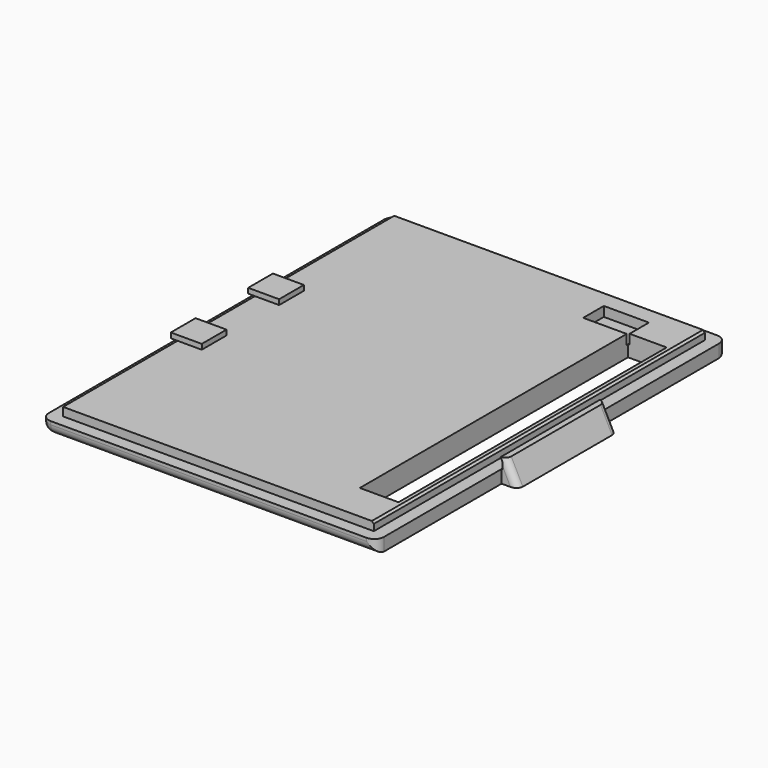
from build123d import *

# Parameters (mm, degrees)
SKETCH_W        = 52
SKETCH_H        = 68
PAD_DEPTH       = 2
SKETCH001_W     = 48.2
SKETCH001_H     = 64.2
PAD001_DEPTH    = 1.3
SKETCH002_W     = 4.8
SKETCH002_H     = 4.8
PAD002_DEPTH    = 0.8
PAD003_DEPTH    = 64.3
SKETCH004_W     = 6
SKETCH004_H     = 52
POCKET_DEPTH    = 5
SKETCH005_W     = 7
SKETCH005_H     = 4
POCKET001_DEPTH = 1.5
POCKET002_DEPTH = 22.5
POCKET003_DEPTH = 22.5
FILLET_R        = 1.5
CHAMFER_SIZE    = 0.3
FILLET001_R     = 1


with BuildPart() as part:
    # Sketch → Pad (new body)
    with BuildSketch(Plane.XY):
        with Locations((24.25, 32.25)):
            Rectangle(SKETCH_W, SKETCH_H)
    extrude(amount=PAD_DEPTH)

    # Sketch001 (on Face6 of Pad) → Pad001 (join)
    with BuildSketch(Plane.XY.offset(2)):
        with Locations((24.25, 32.25)):
            Rectangle(SKETCH001_W, SKETCH001_H)
    extrude(amount=PAD001_DEPTH)

    # Sketch002 (on Face11 of Pad001) → Pad002 (join)
    with BuildSketch(Plane.XY.offset(3.3)):
        with Locations((1.5, 24.75)):
            Rectangle(SKETCH002_W, SKETCH002_H)
        with Locations((1.5, 39.75)):
            Rectangle(SKETCH002_W, SKETCH002_H)
    extrude(amount=PAD002_DEPTH)

    # Sketch003 (on Face9 of Pad002) → Pad003 (join)
    with BuildSketch(Plane(origin=(0, 64.35, 0), x_dir=(-1, 0, 0), z_dir=(0, 1, 0))):
        Polygon((-50.25, 0), (-52.75, 0), (-50.95359, 3.55), (-50.05359, 3.55), (-50.4, 2.95), (-50.4, 2), (-50.25, 2), align=None)
    extrude(amount=-PAD003_DEPTH)

    # Sketch004 (on Face4 of Pad003) → Pocket (cut)
    with BuildSketch(Plane(origin=(0, 0, 0), x_dir=(1, 0, 0), z_dir=(0, 0, -1))):
        with Locations((44.5, -32)):
            Rectangle(SKETCH004_W, SKETCH004_H)
    extrude(amount=-POCKET_DEPTH, mode=Mode.SUBTRACT)

    # Sketch005 (on Face24 of Pocket) → Pocket001 (cut)
    with BuildSketch(Plane.XY.offset(3.3)):
        with Locations((38.25, 59.75)):
            Rectangle(SKETCH005_W, SKETCH005_H)
    extrude(amount=-POCKET001_DEPTH, mode=Mode.SUBTRACT)

    # Sketch006 (on Face6 of Pad003) → Pocket002 (cut)
    with BuildSketch(Plane(origin=(0, 64.35, 0), x_dir=(-1, 0, 0), z_dir=(0, 1, 0))):
        Polygon((-50.25, 0), (-50.25, 3), (-49.75, 3), (-49.75, 4.5), (-53.25, 4.5), (-53.25, 0), align=None)
    extrude(amount=-POCKET002_DEPTH, mode=Mode.SUBTRACT)

    # Sketch007 (on Face21 of Pocket002) → Pocket003 (cut)
    with BuildSketch(Plane.XZ.offset(-0.05)):
        Polygon((50.25, 0), (50.25, 3), (49.75, 3), (49.75, 4.5), (53.25, 4.5), (53.25, 0), align=None)
    extrude(amount=-POCKET003_DEPTH, mode=Mode.SUBTRACT)

    # Fillet
    fillet_edges = [part.edges().sort_by_distance(p)[0] for p in [
        (50.25, -1.75, 1),
        (24.25, -1.75, 0),
        (-1.75, -1.75, 1),
        (-1.75, 32.25, 0),
        (-1.75, 66.25, 1),
        (24.25, 66.25, 0),
        (50.25, 66.25, 1),
    ]]
    fillet(fillet_edges, radius=FILLET_R)

    # Chamfer
    chamfer_edges = [part.edges().sort_by_distance(p)[0] for p in [
        (48.35, 32.25, 3.3),
    ]]
    chamfer(chamfer_edges, length=CHAMFER_SIZE)

    # Fillet001
    fillet001_edges = [part.edges().sort_by_distance(p)[0] for p in [
        (51.851795, 41.85, 1.775),
        (51.851795, 22.55, 1.775),
    ]]
    fillet(fillet001_edges, radius=FILLET001_R)


solid = part.part
